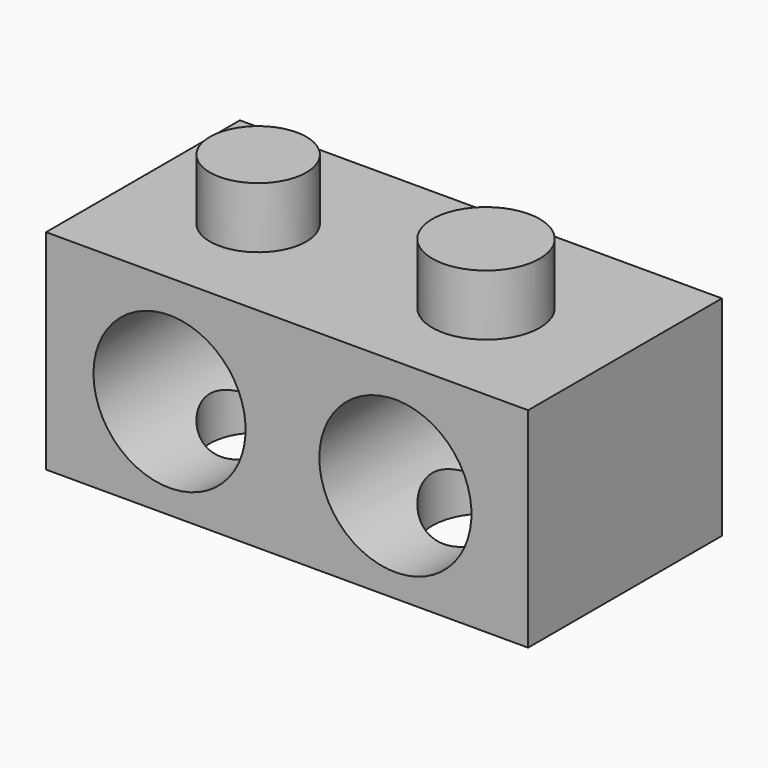
from build123d import *

# Parameters (mm, degrees)
F0_W      = 141.2794664502
F0_H      = 101.1280715466
F1_DEPTH  = 87.2775018215
F2_DEPTH  = 59.9578022957
F4_R      = 22.4182284803
F5_DEPTH  = 25.4
F3_R      = 20.138408071
F6_DEPTH  = 25.4
F7_DEPTH  = 164.3640697002
F8_DEPTH  = 163.5153144598
F9_DEPTH  = 63.5
F10_DEPTH = 63.5
F11_DEPTH = 25.4
F12_DEPTH = 25.4
F14_D     = 63.5
F17_D     = 63.5


with BuildPart() as f1:
    # F0 (on Top) → F1 (new body)
    with BuildSketch(Plane.XY):
        with Locations((-2.8060041368, 2.750582993)):
            Rectangle(F0_W, F0_H)
    extrude(amount=F1_DEPTH)

    # F2 (add): a face of the model
    f2_faces = [f1.faces().sort_by_distance(p)[0] for p in [
        (-73.4457373619, 2.750582993, 43.6387509108),
    ]]
    extrude(f2_faces, amount=F2_DEPTH)

    # F4 (on face) → F5 (join)
    with BuildSketch(Plane.XY.offset(87.2775018215)):
        with Locations((12.0112225413, 0)):
            Circle(F4_R)
    extrude(amount=F5_DEPTH)

    # F3 (on face) → F6 (join)
    with BuildSketch(Plane.XY.offset(87.2775018215)):
        with Locations((-83.1232145429, 0)):
            Circle(F3_R)
    extrude(amount=F6_DEPTH)

    # F7 (add): a face of the model
    f7_faces = [f1.faces().sort_by_distance(p)[0] for p in [
        (12.0112225413, 0, 112.6775018215),
    ]]
    extrude(f7_faces, amount=-F7_DEPTH)

    # F8 (add): a face of the model
    f8_faces = [f1.faces().sort_by_distance(p)[0] for p in [
        (-83.1232145429, 0, 112.6775018215),
    ]]
    extrude(f8_faces, amount=-F8_DEPTH)

    # F9 (cut): a face of the model
    f9_faces = [f1.faces().sort_by_distance(p)[0] for p in [
        (-83.1232145429, 0, -50.8378126383),
    ]]
    extrude(f9_faces, amount=-F9_DEPTH, mode=Mode.SUBTRACT)

    # F10 (cut): a face of the model
    f10_faces = [f1.faces().sort_by_distance(p)[0] for p in [
        (12.0112225413, 0, -51.6865678787),
    ]]
    extrude(f10_faces, amount=-F10_DEPTH, mode=Mode.SUBTRACT)

    # F11 (cut): a face of the model
    f11_faces = [f1.faces().sort_by_distance(p)[0] for p in [
        (-83.1232145429, 0, 12.6621873617),
    ]]
    extrude(f11_faces, amount=-F11_DEPTH, mode=Mode.SUBTRACT)

    # F12 (cut): a face of the model
    f12_faces = [f1.faces().sort_by_distance(p)[0] for p in [
        (12.0112225413, 0, 11.8134321213),
    ]]
    extrude(f12_faces, amount=-F12_DEPTH, mode=Mode.SUBTRACT)

    # F14 (through all)
    with Locations(Plane.XZ.offset(47.8134527802)):
        with Locations((12.4171413481, 41.448071599)):
            Hole(F14_D / 2)

    # F17 (through all)
    with Locations(Plane.XZ.offset(47.8134527802)):
        with Locations((-81.8664953113, 41.7736619711)):
            Hole(F17_D / 2)


solid = f1.part
